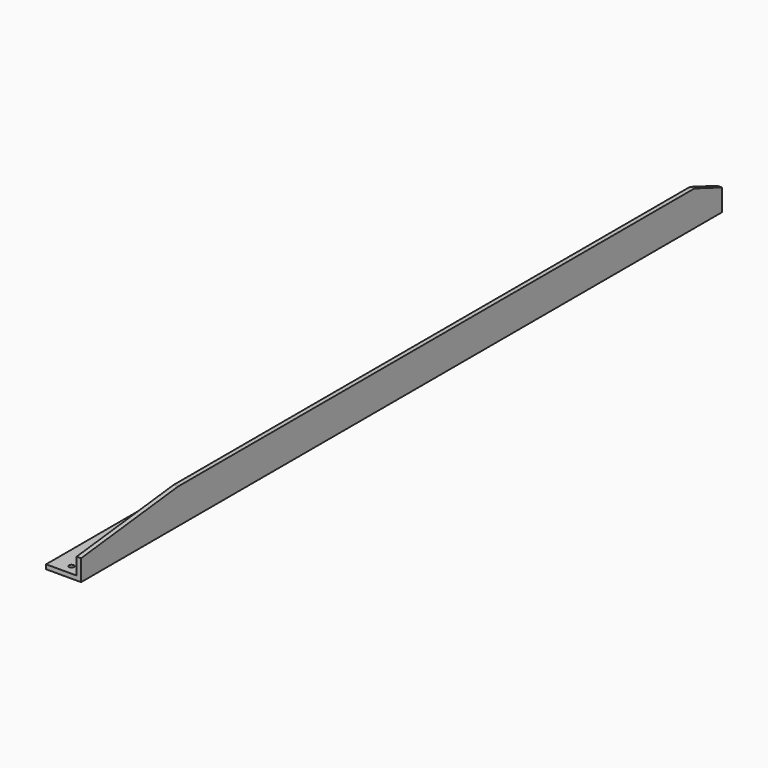
from build123d import *

# Parameters (mm, degrees)
F1_DEPTH = 291
F3_SIZE2 = 25
F3_SIZE  = 9.5
F4_SIZE2 = 10.1
F4_SIZE  = 88
F6_R     = 1.75
F7_DEPTH = 3.2


with BuildPart() as f1:
    # F0 (on Front) → F1 (new body, symmetric)
    with BuildSketch(Plane.XZ):
        Polygon((25.4, 12.7), (22.2, 12.7), (22.2, -9.5), (0, -9.5), (0, -12.7), (25.4, -12.7), align=None)
    extrude(amount=F1_DEPTH, both=True)

    # F3
    f3_edges = [f1.edges().sort_by_distance(p)[0] for p in [
        (23.8, 291, 12.7),
    ]]
    f3_side = f1.faces().sort_by_distance((23.8, 291, 12.34079))[0]
    chamfer(f3_edges, length=F3_SIZE, length2=F3_SIZE2, reference=f3_side)

    # F4
    f4_edges = [f1.edges().sort_by_distance(p)[0] for p in [
        (23.8, -291, 12.7),
    ]]
    f4_side = f1.faces().sort_by_distance((23.8, -12.5, 12.7))[0]
    chamfer(f4_edges, length=F4_SIZE, length2=F4_SIZE2, reference=f4_side)

    # F6 (on face) → F7 (cut, through all)
    with BuildSketch(Plane.XY.offset(-9.5)):
        with Locations((12.7, -283.8)):
            Circle(F6_R)
        with Locations((12.7, 283.8)):
            Circle(F6_R)
    extrude(amount=-F7_DEPTH, mode=Mode.SUBTRACT)


solid = f1.part
